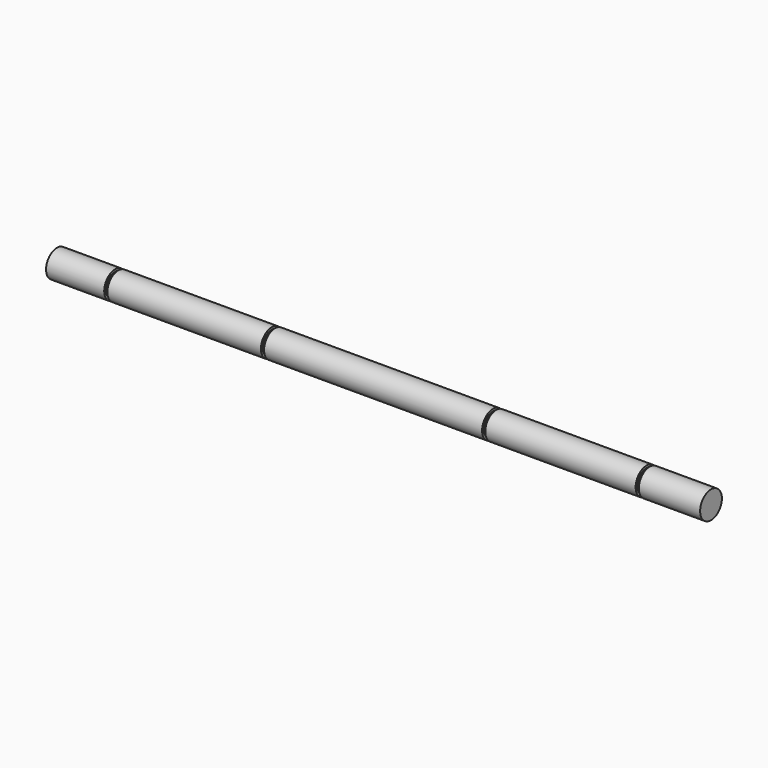
from build123d import *

# Parameters (mm, degrees)
F0_R      = 3.175
F1_DEPTH  = 152.4
F3_R      = 3.175
F3_R_2    = 2.667
F4_DEPTH  = 0.7366
F6_R      = 3.175
F6_R_2    = 2.667
F7_DEPTH  = 0.7366
F9_R      = 3.175
F9_R_2    = 2.667
F10_DEPTH = 0.7366
F12_R     = 3.175
F12_R_2   = 2.667
F13_DEPTH = 0.7366


with BuildPart() as f1:
    # F0 (on Right) → F1 (new body)
    with BuildSketch(Plane.YZ):
        Circle(F0_R)
    extrude(amount=F1_DEPTH)

    # F3 (on offset) → F4 (cut)
    with BuildSketch(Plane.YZ.offset(138.1125)):
        Circle(F3_R)
        Circle(F3_R_2, mode=Mode.SUBTRACT)
    extrude(amount=-F4_DEPTH, mode=Mode.SUBTRACT)

    # F6 (on offset) → F7 (cut)
    with BuildSketch(Plane(origin=(14.2875, 0, 0), x_dir=(0, 1, 0), z_dir=(-1, 0, 0))):
        Circle(F6_R)
        Circle(F6_R_2, mode=Mode.SUBTRACT)
    extrude(amount=F7_DEPTH, mode=Mode.SUBTRACT)

    # F9 (on offset) → F10 (cut)
    with BuildSketch(Plane.YZ.offset(50.8)):
        Circle(F9_R)
        Circle(F9_R_2, mode=Mode.SUBTRACT)
    extrude(amount=-F10_DEPTH, mode=Mode.SUBTRACT)

    # F12 (on offset) → F13 (cut)
    with BuildSketch(Plane.YZ.offset(101.6)):
        Circle(F12_R)
        Circle(F12_R_2, mode=Mode.SUBTRACT)
    extrude(amount=F13_DEPTH, mode=Mode.SUBTRACT)


solid = f1.part
